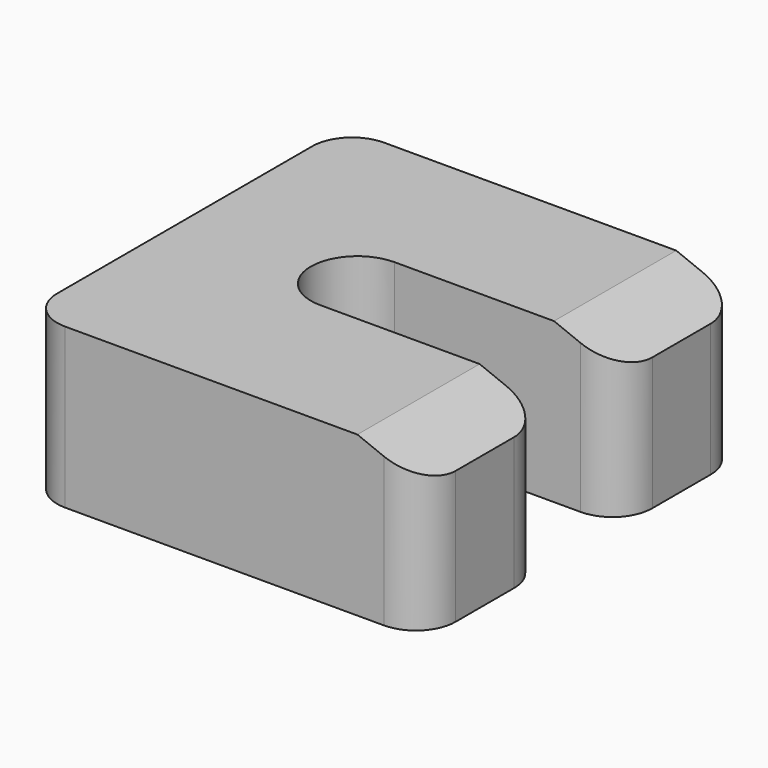
from build123d import *

# Parameters (mm, degrees)
F2_DEPTH   = 12
F3_SIZE2   = 5
F3_SIZE    = 2
F3_2_SIZE2 = 5
F3_2_SIZE  = 2
F4_R       = 3


with BuildPart() as f2:
    # F1 (on Top) → F2 (new body)
    with BuildSketch(Plane.XY):
        with BuildLine():
            Line((15, 3.5), (15, 15))
            Line((15, 15), (-15, 15))
            Line((-15, 15), (-15, -15))
            Line((-15, -15), (15, -15))
            Line((15, -15), (15, -3.5))
            Line((15, -3.5), (-2, -3.5))
            ThreePointArc((-2, -3.5), (-5.5, 0), (-2, 3.5))
            Line((-2, 3.5), (15, 3.5))
        make_face()
    extrude(amount=F2_DEPTH)

    # F3
    f3_edges = [f2.edges().sort_by_distance(p)[0] for p in [
        (15, -9.25, 12),
    ]]
    f3_side = f2.faces().sort_by_distance((15, -9.25, 6))[0]
    chamfer(f3_edges, length=F3_SIZE, length2=F3_SIZE2, reference=f3_side)

    # F3#2
    f3_2_edges = [f2.edges().sort_by_distance(p)[0] for p in [
        (15, 9.25, 12),
    ]]
    f3_2_side = f2.faces().sort_by_distance((15, 9.25, 6))[0]
    chamfer(f3_2_edges, length=F3_2_SIZE, length2=F3_2_SIZE2, reference=f3_2_side)

    # F4
    f4_edges = [f2.edges().sort_by_distance(p)[0] for p in [
        (-15, -15, 6),
        (15, -15, 5),
        (15, 15, 5),
        (-15, 15, 6),
        (15, -3.5, 5),
        (15, 3.5, 5),
    ]]
    fillet(f4_edges, radius=F4_R)


solid = f2.part
